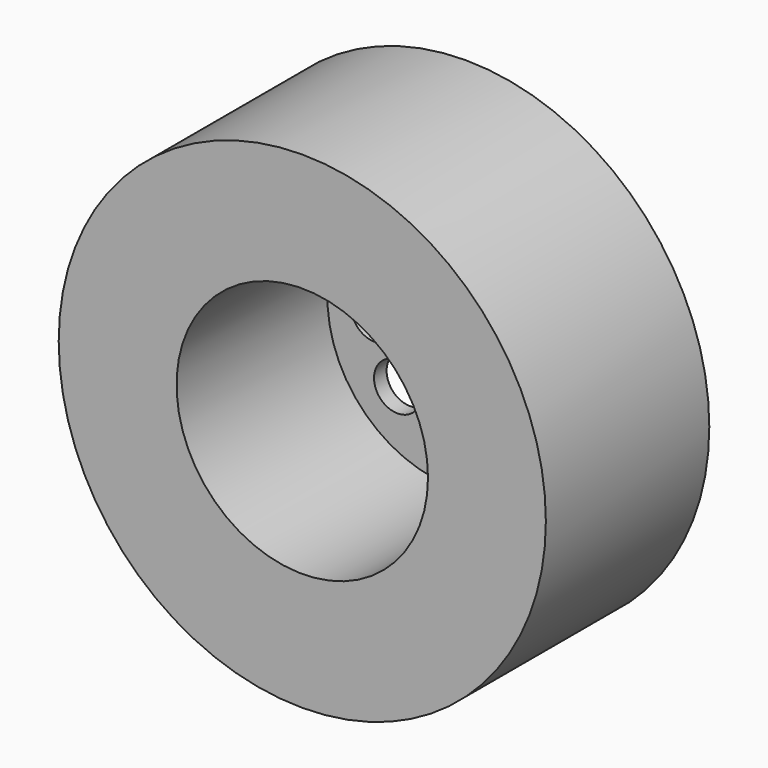
from build123d import *

# Parameters (mm, degrees)
F0_R     = 19.685
F0_R_2   = 10.16
F1_DEPTH = 16.51
F3_T     = -2.54
F2_R     = 10.16
F4_DEPTH = 1.27
F0_R_3   = 1.905
F5_DEPTH = 25.4
F0_R_4   = 3.175
F6_DEPTH = 10.16


with BuildPart() as f1:
    # F0 (on Front) → F1 (new body)
    with BuildSketch(Plane.XZ):
        Circle(F0_R)
        Circle(F0_R_2, mode=Mode.SUBTRACT)
    extrude(amount=F1_DEPTH)

    # F3
    f3_openings = [f1.faces().sort_by_distance(p)[0] for p in [
        (-19.128224, 0, 0),
    ]]
    offset(amount=F3_T, openings=f3_openings)

    # F2 (on face) → F4 (join)
    with BuildSketch(Plane.XZ):
        Circle(F2_R)
    extrude(amount=F4_DEPTH)

    # F0 (on Front) → F5 (cut)
    with BuildSketch(Plane.XZ):
        with Locations((4.490128, 4.490128)):
            Circle(F0_R_3)
        with Locations((6.35, 0)):
            Circle(F0_R_3)
        with Locations((4.490128, -4.490128)):
            Circle(F0_R_3)
        with Locations((0, -6.35)):
            Circle(F0_R_3)
        with Locations((-4.490128, -4.490128)):
            Circle(F0_R_3)
        with Locations((-6.35, 0)):
            Circle(F0_R_3)
        with Locations((-4.490128, 4.490128)):
            Circle(F0_R_3)
        with Locations((0, 6.35)):
            Circle(F0_R_3)
    extrude(amount=F5_DEPTH, mode=Mode.SUBTRACT)

    # F0 (on Front) → F6 (join)
    with BuildSketch(Plane.XZ):
        Circle(F0_R_4)
        Circle(F0_R_3, mode=Mode.SUBTRACT)
    extrude(amount=-F6_DEPTH)


solid = f1.part
